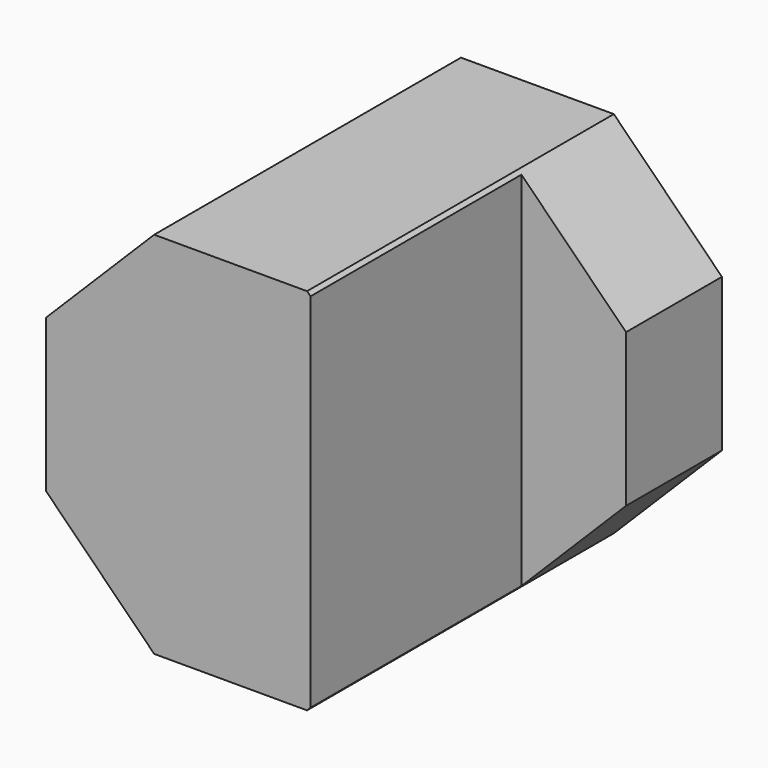
from build123d import *

# Parameters (mm, degrees)
BOX008_W         = 2
BOX008_H         = 3.3
BOX008_DEPTH     = 6
EXTRUDE004_DEPTH = 4.8


with BuildPart() as box008:
    # Box008 → Box008 (new body)
    with BuildSketch(Plane(origin=(1, 0, -0.5), x_dir=(1, 0, 0), z_dir=(0, 0, 1))):
        with Locations((1, 1.65)):
            Rectangle(BOX008_W, BOX008_H)
    extrude(amount=BOX008_DEPTH)


with BuildPart() as obj1:
    # Sketch002 → Extrude004 (new body)
    with BuildSketch(Plane.XZ):
        Polygon((2.309699, 1.35299), (2.309699, 3.266407), (0.956709, 4.619398), (-0.956709, 4.619398), (-2.309699, 3.266407), (-2.309699, 1.35299), (-0.956709, 0), (0.956709, 0), align=None)
    extrude(amount=-EXTRUDE004_DEPTH)

    # Cut: cut Box008
    add(box008.part, mode=Mode.SUBTRACT)


solid = obj1.part
